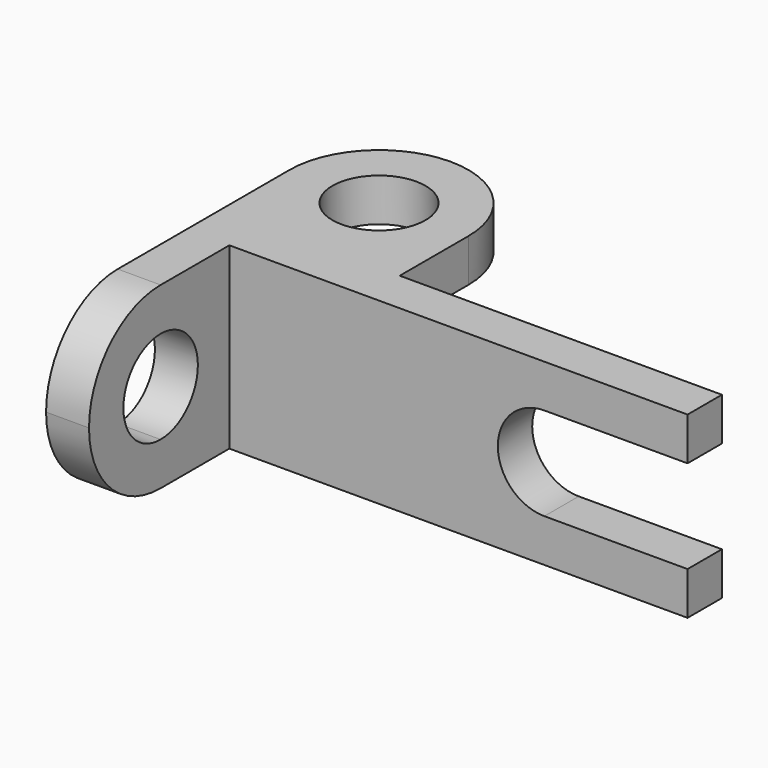
from build123d import *

# Parameters (mm, degrees)
F1_DEPTH = 6
F3_DEPTH = 6
F4_W     = 25
F4_H     = 12
F5_DEPTH = 6
F6_D     = 13


with BuildPart() as f1:
    # F0 (on Front) → F1 (new body)
    with BuildSketch(Plane.XZ):
        with BuildLine():
            Line((32, 6.5), (32, 12.5))
            Line((32, 12.5), (-32, 12.5))
            Line((-32, 12.5), (-32, -12.5))
            Line((-32, -12.5), (32, -12.5))
            Line((32, -12.5), (32, -6.5))
            Line((32, -6.5), (12, -6.5))
            ThreePointArc((12, -6.5), (5.5, 0), (12, 6.5))
            Line((12, 6.5), (32, 6.5))
        make_face()
    extrude(amount=F1_DEPTH)

    # F2 (on face) → F3 (join)
    with BuildSketch(Plane(origin=(-32, 0, 0), x_dir=(0, -1, 0), z_dir=(-1, 0, 0))):
        with BuildLine():
            Line((18, 12.5), (0, 12.5))
            Line((0, 12.5), (0, -12.5))
            Line((0, -12.5), (18, -12.5))
            ThreePointArc((18, -12.5), (5.5, 0), (18, 12.5))
        make_face()
        with BuildLine():
            ThreePointArc((30.5, 0), (26.8388347648, 8.8388347648), (18, 12.5))
            Line((18, 12.5), (18, 6.5))
            ThreePointArc((18, 6.5), (22.5961940777, 4.5961940777), (24.5, 0))
            ThreePointArc((24.5, 0), (22.5961940777, -4.5961940777), (18, -6.5))
            Line((18, -6.5), (18, -12.5))
            ThreePointArc((18, -12.5), (26.8388347648, -8.8388347648), (30.5, 0))
        make_face()
        with BuildLine():
            Line((18, 6.5), (18, 12.5))
            ThreePointArc((18, 12.5), (5.5, 0), (18, -12.5))
            Line((18, -12.5), (18, -6.5))
            ThreePointArc((18, -6.5), (11.5, 0), (18, 6.5))
        make_face()
    extrude(amount=F3_DEPTH)

    # F4 (on face) → F5 (join)
    with BuildSketch(Plane.XY.offset(12.5)):
        with BuildLine():
            ThreePointArc((-13, 12), (-25.5, 24.5), (-38, 12))
            Line((-38, 12), (-13, 12))
        make_face()
        Polygon((-38, 0), (-38, -6), (-32, -6), (-13, -6), (-13, 0), align=None)
        with Locations((-25.5, 6)):
            Rectangle(F4_W, F4_H)
    extrude(amount=-F5_DEPTH)

    # F6 (through all)
    with Locations(Plane.XY.offset(12.5)):
        with Locations((-25.5, 12)):
            Hole(F6_D / 2)


solid = f1.part
